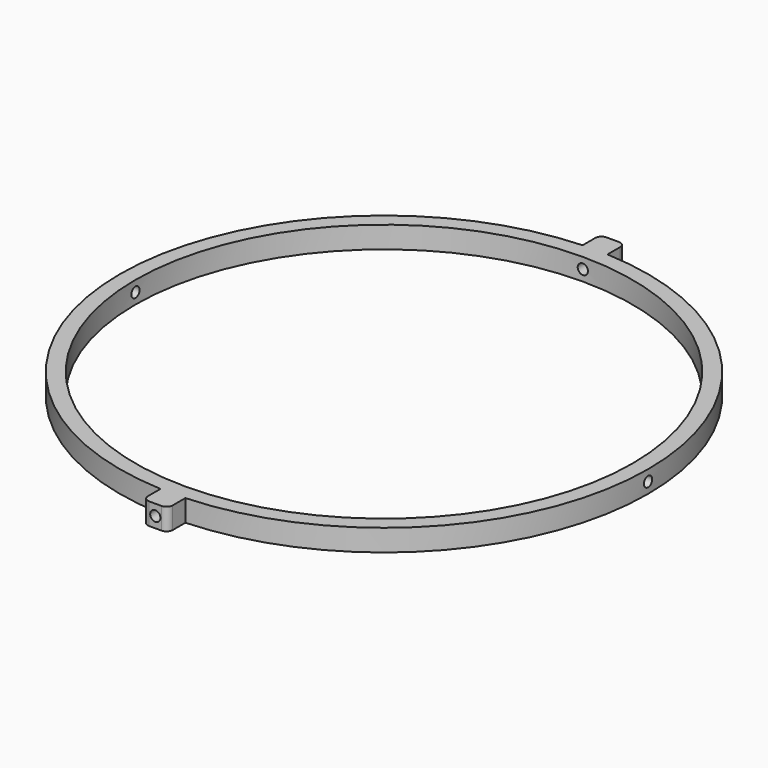
from build123d import *

# Parameters (mm, degrees)
SKETCH074_R          = 85
SKETCH074_R_2        = 80
SKETCH074_W          = 8
SKETCH074_H          = 12
PAD006_DEPTH         = 3.5
PAD007_DEPTH         = 3.5
SKETCH076_R          = 1.65
POCKET004_DEPTH      = 85.001
POCKET004_DEPTH_BACK = 85.001
SKETCH075_R          = 1.65
POCKET005_DEPTH      = 92.001
POCKET005_DEPTH_BACK = 92.001
FILLET001_R          = 2


with BuildPart() as part:
    # Sketch074 → Pad006 (new body, symmetric)
    with BuildSketch(Plane.XY):
        Circle(SKETCH074_R)
        Circle(SKETCH074_R_2, mode=Mode.SUBTRACT)
        with Locations((0, 86)):
            Rectangle(SKETCH074_W, SKETCH074_H)
        with Locations((0, -86)):
            Rectangle(SKETCH074_W, SKETCH074_H)
    extrude(amount=PAD006_DEPTH, both=True)

    # Sketch074 → Pad007 (join, symmetric)
    with BuildSketch(Plane.XY):
        Circle(SKETCH074_R)
        Circle(SKETCH074_R_2, mode=Mode.SUBTRACT)
        with Locations((0, 86)):
            Rectangle(SKETCH074_W, SKETCH074_H)
        with Locations((0, -86)):
            Rectangle(SKETCH074_W, SKETCH074_H)
    extrude(amount=PAD007_DEPTH, both=True)

    # Sketch076 → Pocket004 (cut, two sides)
    with BuildSketch(Plane.YZ) as pocket004_sk:
        Circle(SKETCH076_R)
    extrude(amount=-POCKET004_DEPTH, mode=Mode.SUBTRACT)
    extrude(pocket004_sk.sketch, amount=POCKET004_DEPTH_BACK, mode=Mode.SUBTRACT)

    # Sketch075 → Pocket005 (cut, two sides)
    with BuildSketch(Plane.XZ) as pocket005_sk:
        Circle(SKETCH075_R)
    extrude(amount=-POCKET005_DEPTH, mode=Mode.SUBTRACT)
    extrude(pocket005_sk.sketch, amount=POCKET005_DEPTH_BACK, mode=Mode.SUBTRACT)

    # Fillet001
    fillet001_edges = [part.edges().sort_by_distance(p)[0] for p in [
        (4, -92, 0),
        (-4, -92, 0),
        (-4, 92, 0),
        (4, 92, 0),
    ]]
    fillet(fillet001_edges, radius=FILLET001_R)


solid = part.part
